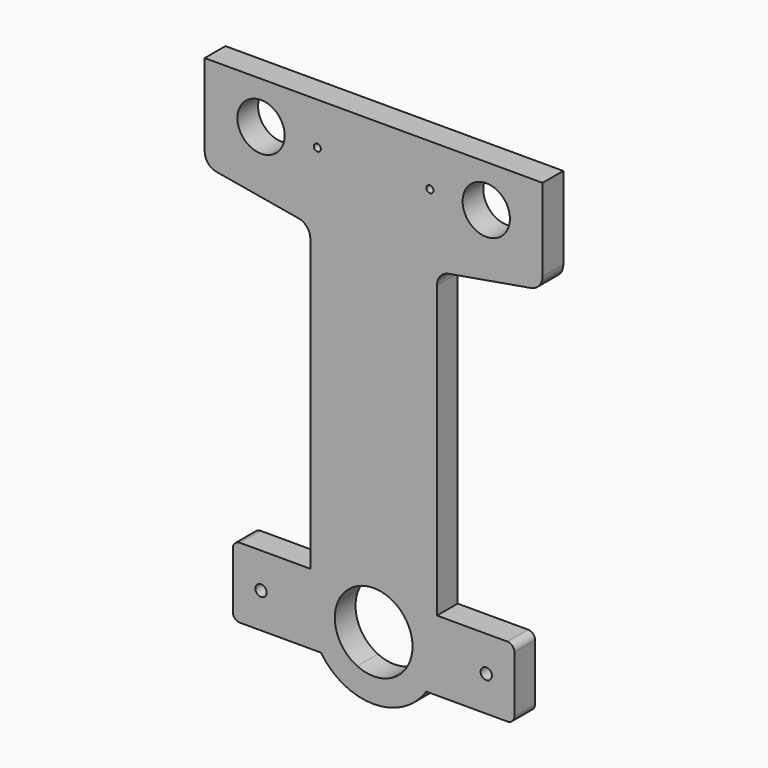
from build123d import *

# Parameters (mm, degrees)
F0_R     = 10.668
F0_R_2   = 1.5875
F0_R_3   = 2.54
F1_DEPTH = 11.684


with BuildPart() as f1:
    # F0 (on Front) → F1 (new body)
    with BuildSketch(Plane.XZ):
        with BuildLine():
            ThreePointArc((-23.759524406, 15.875), (0, 28.575), (23.759524406, 15.875))
            Line((23.759524406, 15.875), (28.575, 15.875))
            Line((28.575, 15.875), (28.575, 147.0559814834))
            ThreePointArc((28.575, 147.0559814834), (30.0665512939, 151.1447436641), (33.8405043055, 153.312687413))
            Line((33.8405043055, 153.312687413), (70.9344956945, 159.742312587))
            ThreePointArc((70.9344956945, 159.742312587), (74.7084487061, 161.9102563359), (76.2, 165.9990185166))
            Line((76.2, 165.9990185166), (76.2, 203.2))
            Line((76.2, 203.2), (17.526, 203.2))
            Line((17.526, 203.2), (-17.526, 203.2))
            Line((-17.526, 203.2), (-76.2, 203.2))
            Line((-76.2, 203.2), (-76.2, 165.9990185166))
            ThreePointArc((-76.2, 165.9990185166), (-74.7084487061, 161.9102563359), (-70.9344956945, 159.742312587))
            Line((-70.9344956945, 159.742312587), (-33.8405043055, 153.312687413))
            ThreePointArc((-33.8405043055, 153.312687413), (-30.0665512939, 151.1447436641), (-28.575, 147.0559814834))
            Line((-28.575, 147.0559814834), (-28.575, 15.875))
            Line((-28.575, 15.875), (-23.759524406, 15.875))
        make_face()
        with Locations((-50.8, 184.15)):
            Circle(F0_R, mode=Mode.SUBTRACT)
        with Locations((-25.4, 184.15)):
            Circle(F0_R_2, mode=Mode.SUBTRACT)
        with Locations((25.4, 184.15)):
            Circle(F0_R_2, mode=Mode.SUBTRACT)
        with Locations((50.8, 184.15)):
            Circle(F0_R, mode=Mode.SUBTRACT)
        with BuildLine():
            Line((-60.325, -15.875), (-23.759524406, -15.875))
            ThreePointArc((-23.759524406, -15.875), (-27.3446433045, -8.2946433045), (-28.575, 0))
            Line((-28.575, 0), (-28.575, 15.875))
            Line((-28.575, 15.875), (-60.325, 15.875))
            ThreePointArc((-60.325, 15.875), (-62.5700640303, 14.9450640303), (-63.5, 12.7))
            Line((-63.5, 12.7), (-63.5, -12.7))
            ThreePointArc((-63.5, -12.7), (-62.5700640303, -14.9450640303), (-60.325, -15.875))
        make_face()
        with Locations((-50.8, 0)):
            Circle(F0_R_3, mode=Mode.SUBTRACT)
        with BuildLine():
            ThreePointArc((28.575, 0), (27.3446433045, -8.2946433045), (23.759524406, -15.875))
            Line((23.759524406, -15.875), (60.325, -15.875))
            ThreePointArc((60.325, -15.875), (62.5700640303, -14.9450640303), (63.5, -12.7))
            Line((63.5, -12.7), (63.5, 12.7))
            ThreePointArc((63.5, 12.7), (62.5700640303, 14.9450640303), (60.325, 15.875))
            Line((60.325, 15.875), (28.575, 15.875))
            Line((28.575, 15.875), (28.575, 0))
        make_face()
        with Locations((50.8, 0)):
            Circle(F0_R_3, mode=Mode.SUBTRACT)
        with BuildLine():
            Line((23.759524406, -15.875), (7.4259713843, -15.875))
            ThreePointArc((7.4259713843, -15.875), (0, -17.526), (-7.4259713843, -15.875))
            Line((-7.4259713843, -15.875), (-23.759524406, -15.875))
            ThreePointArc((-23.759524406, -15.875), (0, -28.575), (23.759524406, -15.875))
        make_face()
        with BuildLine():
            ThreePointArc((-7.4259713843, -15.875), (-17.526, 0), (-7.4259713843, 15.875))
            Line((-7.4259713843, 15.875), (-23.759524406, 15.875))
            ThreePointArc((-23.759524406, 15.875), (-27.3446433045, 8.2946433045), (-28.575, 0))
            ThreePointArc((-28.575, 0), (-27.3446433045, -8.2946433045), (-23.759524406, -15.875))
            Line((-23.759524406, -15.875), (-7.4259713843, -15.875))
        make_face()
        with BuildLine():
            ThreePointArc((-7.4259713843, 15.875), (0, 17.526), (7.4259713843, 15.875))
            Line((7.4259713843, 15.875), (23.759524406, 15.875))
            ThreePointArc((23.759524406, 15.875), (0, 28.575), (-23.759524406, 15.875))
            Line((-23.759524406, 15.875), (-7.4259713843, 15.875))
        make_face()
        with BuildLine():
            ThreePointArc((7.4259713843, 15.875), (14.7869579441, 9.4077920236), (17.526, 0))
            ThreePointArc((17.526, 0), (14.7869579441, -9.4077920236), (7.4259713843, -15.875))
            Line((7.4259713843, -15.875), (23.759524406, -15.875))
            ThreePointArc((23.759524406, -15.875), (27.3446433045, -8.2946433045), (28.575, 0))
            ThreePointArc((28.575, 0), (27.3446433045, 8.2946433045), (23.759524406, 15.875))
            Line((23.759524406, 15.875), (7.4259713843, 15.875))
        make_face()
        with BuildLine():
            ThreePointArc((-28.575, 0), (-27.3446433045, 8.2946433045), (-23.759524406, 15.875))
            Line((-23.759524406, 15.875), (-28.575, 15.875))
            Line((-28.575, 15.875), (-28.575, 0))
        make_face()
        with BuildLine():
            Line((28.575, 15.875), (23.759524406, 15.875))
            ThreePointArc((23.759524406, 15.875), (27.3446433045, 8.2946433045), (28.575, 0))
            Line((28.575, 0), (28.575, 15.875))
        make_face()
    extrude(amount=F1_DEPTH)


solid = f1.part
